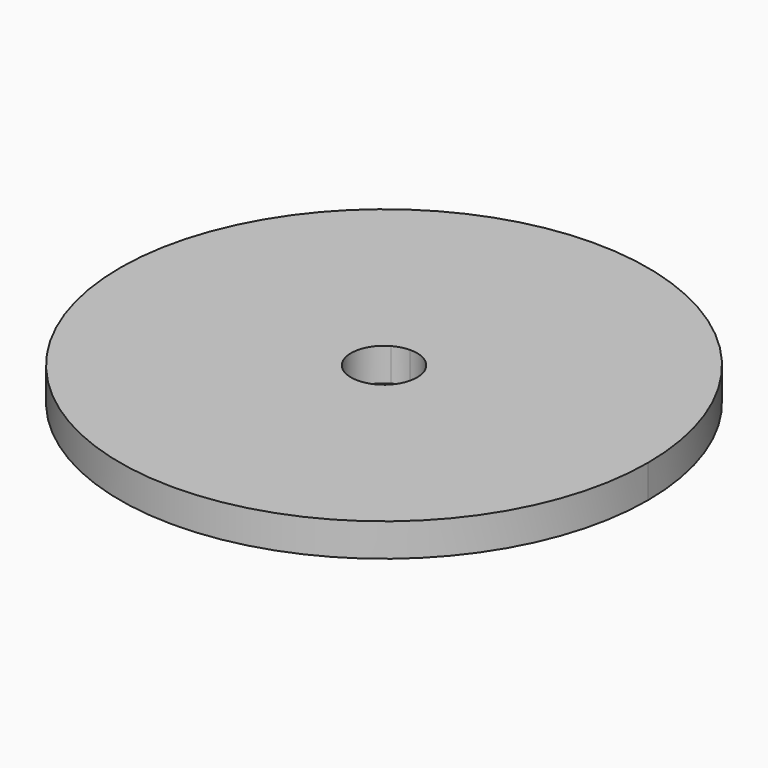
from build123d import *

# Parameters (mm, degrees)
F1_DEPTH = 4.7625


with BuildPart() as f1:
    # F0 (on Top) → F1 (new body)
    with BuildSketch(Plane.XY):
        with BuildLine():
            ThreePointArc((-18.7669216404, 33.1573921192), (-19.1910172412, -32.9137487572), (38.1, 0))
            ThreePointArc((38.1, 0), (26.8100597322, 27.0708458891), (-0.3688030002, 38.0982149759))
            Line((-0.3688030002, 38.0982149759), (-0.046100375, 4.762276872))
            ThreePointArc((-0.046100375, 4.762276872), (3.3512574665, 3.3838557361), (4.7625, 0))
            ThreePointArc((4.7625, 0), (-2.3988771551, -4.1142185946), (-2.345865205, 4.1446740149))
            Line((-2.345865205, 4.1446740149), (-18.7669216404, 33.1573921192))
        make_face()
        with BuildLine():
            Line((-18.7669216404, 33.1573921192), (-0.3688030002, 38.0982149759))
            ThreePointArc((-0.3688030002, 38.0982149759), (-9.8816457134, 36.7962372804), (-18.7669216404, 33.1573921192))
        make_face()
        with BuildLine():
            Line((-0.046100375, 4.762276872), (-0.3688030002, 38.0982149759))
            Line((-0.3688030002, 38.0982149759), (-18.7669216404, 33.1573921192))
            Line((-18.7669216404, 33.1573921192), (-2.345865205, 4.1446740149))
            ThreePointArc((-2.345865205, 4.1446740149), (-1.2352057142, 4.59952966), (-0.046100375, 4.762276872))
        make_face()
    extrude(amount=F1_DEPTH)


solid = f1.part
